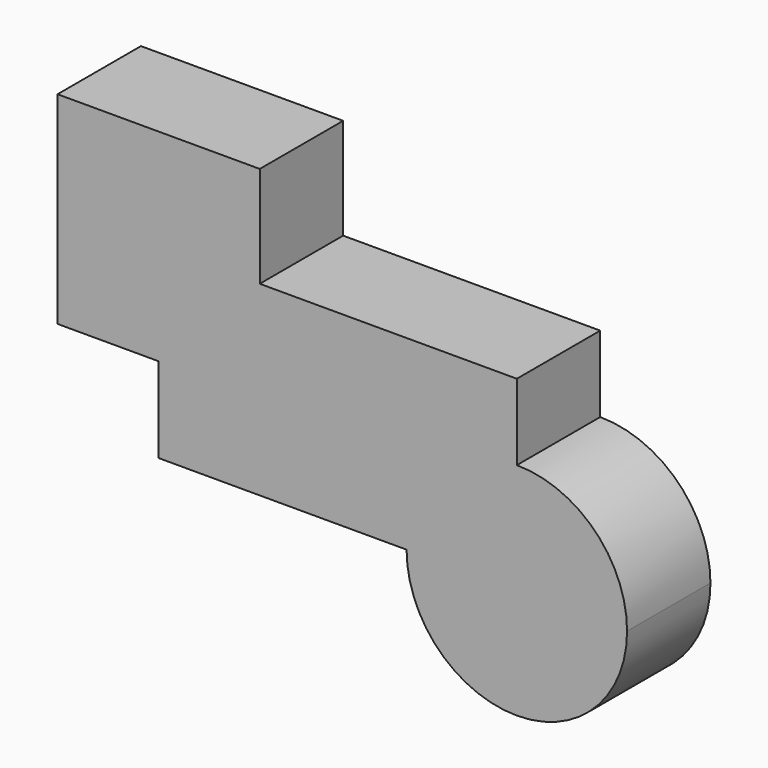
from build123d import *

# Parameters (mm, degrees)
F1_DEPTH = 25


with BuildPart() as f1:
    # F0 (on Front) → F1 (new body)
    with BuildSketch(Plane.XZ):
        with BuildLine():
            Line((-133.5252970457, 4.3546073139), (-133.5252970457, 28.6027789116))
            Line((-133.5252970457, 28.6027789116), (-109.277125448, 28.6027789116))
            ThreePointArc((-109.277125448, 28.6027789116), (-116.3792504776, 45.7488254797), (-133.5252970457, 52.8509505093))
            ThreePointArc((-133.5252970457, 52.8509505093), (-150.6713436138, 45.7488254797), (-157.7734686434, 28.6027789116))
            ThreePointArc((-157.7734686434, 28.6027789116), (-150.6713436138, 11.4567323435), (-133.5252970457, 4.3546073139))
        make_face()
        with BuildLine():
            Line((-109.277125448, 28.6027789116), (-133.5252970457, 28.6027789116))
            Line((-133.5252970457, 28.6027789116), (-133.5252970457, 4.3546073139))
            ThreePointArc((-133.5252970457, 4.3546073139), (-116.3792504776, 11.4567323435), (-109.277125448, 28.6027789116))
        make_face()
        with BuildLine():
            Line((-109.277125448, 4.3546073139), (-109.277125448, 28.6027789116))
            ThreePointArc((-109.277125448, 28.6027789116), (-116.3792504776, 11.4567323435), (-133.5252970457, 4.3546073139))
            Line((-133.5252970457, 4.3546073139), (-109.277125448, 4.3546073139))
        make_face()
        with BuildLine():
            ThreePointArc((-133.5252970457, 52.8509505093), (-116.3792504776, 45.7488254797), (-109.277125448, 28.6027789116))
            Line((-109.277125448, 28.6027789116), (-109.277125448, 52.8509505093))
            Line((-109.277125448, 52.8509505093), (-133.5252970457, 52.8509505093))
        make_face()
        with BuildLine():
            Line((-47.6276129484, 28.6027789116), (-109.277125448, 28.6027789116))
            Line((-109.277125448, 28.6027789116), (-109.277125448, 4.3546073139))
            Line((-109.277125448, 4.3546073139), (-133.5252970457, 4.3546073139))
            Line((-133.5252970457, 4.3546073139), (-133.5252970457, -16.0810668021))
            Line((-133.5252970457, -16.0810668021), (-74.0654676669, -16.0810668021))
            ThreePointArc((-74.0654676669, -16.0810668021), (-66.3219992999, 2.6133195493), (-47.6276129484, 10.3567879163))
            Line((-47.6276129484, 10.3567879163), (-47.6276129484, 28.6027789116))
        make_face()
        with BuildLine():
            Line((-157.7734686434, 4.3546073139), (-133.5252970457, 4.3546073139))
            ThreePointArc((-133.5252970457, 4.3546073139), (-150.6713436138, 11.4567323435), (-157.7734686434, 28.6027789116))
            Line((-157.7734686434, 28.6027789116), (-157.7734686434, 4.3546073139))
        make_face()
        with BuildLine():
            ThreePointArc((-157.7734686434, 28.6027789116), (-150.6713436138, 45.7488254797), (-133.5252970457, 52.8509505093))
            Line((-133.5252970457, 52.8509505093), (-157.7734686434, 52.8509505093))
            Line((-157.7734686434, 52.8509505093), (-157.7734686434, 28.6027789116))
        make_face()
        with BuildLine():
            ThreePointArc((-21.18975823, -16.0810668021), (-28.933226597, 2.6133195493), (-47.6276129484, 10.3567879163))
            Line((-47.6276129484, 10.3567879163), (-47.6276129484, -16.0810668021))
            Line((-47.6276129484, -16.0810668021), (-74.0654676669, -16.0810668021))
            ThreePointArc((-74.0654676669, -16.0810668021), (-47.6276129484, -42.5189215206), (-21.18975823, -16.0810668021))
        make_face()
        with BuildLine():
            Line((-47.6276129484, -16.0810668021), (-47.6276129484, 10.3567879163))
            ThreePointArc((-47.6276129484, 10.3567879163), (-66.3219992999, 2.6133195493), (-74.0654676669, -16.0810668021))
            Line((-74.0654676669, -16.0810668021), (-47.6276129484, -16.0810668021))
        make_face()
    extrude(amount=F1_DEPTH)


solid = f1.part
